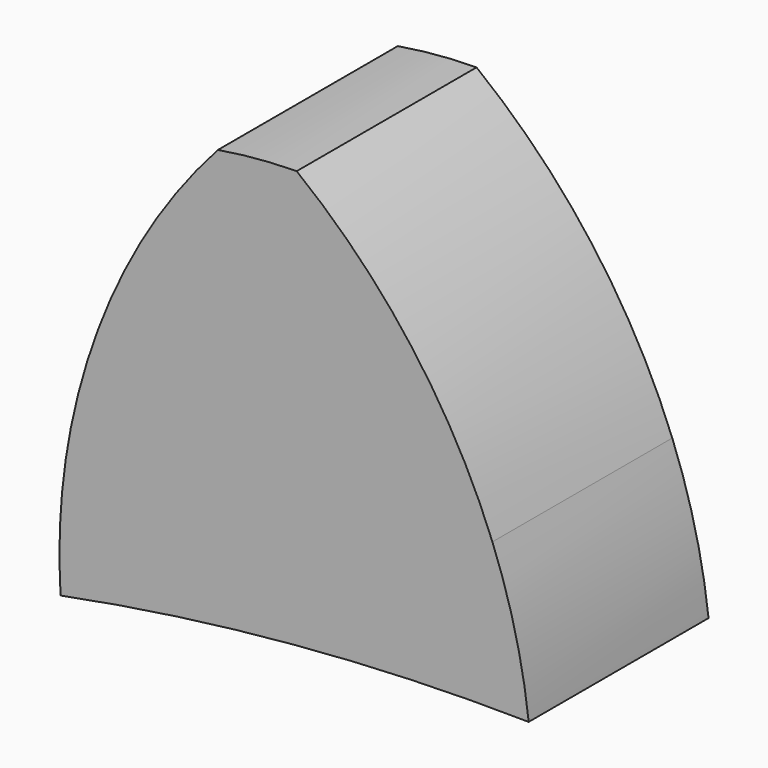
from build123d import *

# Parameters (mm, degrees)
F1_DEPTH = 25


with BuildPart() as f1:
    # F0 (on Front) → F1 (new body)
    with BuildSketch(Plane.XZ):
        with BuildLine():
            ThreePointArc((-48.024606, 249.130402), (-22.112894, 252.751538), (4.033964, 253.684937))
            ThreePointArc((4.033964, 253.684937), (2.545246, 261.973084), (0, 270))
            ThreePointArc((0, 270), (-8.908494, 286.075229), (-21.764041, 299.209503))
            ThreePointArc((-21.764041, 299.209503), (-26.158888, 298.997459), (-30.523788, 298.443124))
            ThreePointArc((-30.523788, 298.443124), (-40.903289, 283.276047), (-46.885008, 265.898093))
            ThreePointArc((-46.885008, 265.898093), (-47.997727, 257.551147), (-48.024606, 249.130402))
        make_face()
    extrude(amount=F1_DEPTH)


solid = f1.part
